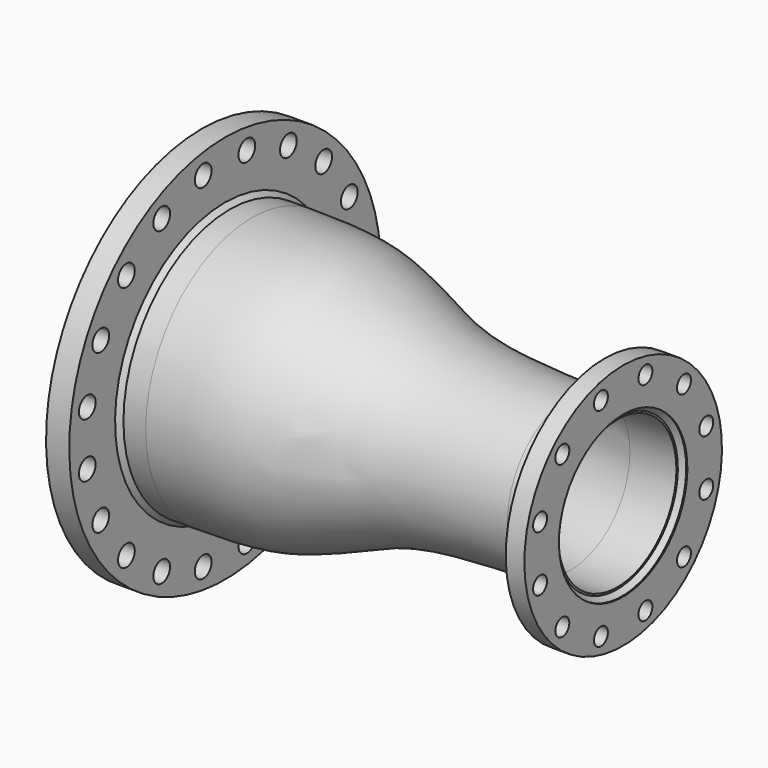
from build123d import *

# Parameters (mm, degrees)
F6_D     = 36
F6_DEPTH = 50
F6_TIP   = 10.8154911425
F8_D     = 30
F8_DEPTH = 50
F8_TIP   = 9.0129092854


with BuildPart() as f1:
    # F0 (on Front) → F1 (revolve)
    with BuildSketch(Plane.XZ):
        Polygon((-337.6619696266, 230), (-329.6619696266, 230), (-299.6619696266, 230), (-299.6619696266, 236.5), (-299.6619696266, 335), (-339.6619696266, 335), (-339.6619696266, 230), align=None)
    revolve(axis=Axis((45.028969672, 0, 0), (1, 0, 0)))

    # F6
    with Locations(Plane(origin=(-339.6619696266, 0, 0), x_dir=(0, -1, 0), z_dir=(-1, 0, 0))):
        with Locations((-46.9303395121, 296.3065021785), (46.9303395121, 296.3065021785), (136.1971499219, 267.3019572565), (212.132034356, 212.132034356), (267.3019572565, 136.1971499219), (296.3065021785, 46.9303395121), (296.3065021785, -46.9303395121), (267.3019572565, -136.1971499219), (212.132034356, -212.132034356), (136.1971499219, -267.3019572565), (46.9303395121, -296.3065021785), (-136.1971499219, -267.3019572565), (-212.132034356, -212.132034356), (-267.3019572565, -136.1971499219), (-296.3065021785, -46.9303395121), (-46.9303395121, -296.3065021785), (-296.3065021785, 46.9303395121), (-267.3019572565, 136.1971499219), (-212.132034356, 212.132034356), (-136.1971499219, 267.3019572565)):
            Hole(F6_D / 2, depth=F6_DEPTH)
            with Locations((0, 0, -(F6_DEPTH + F6_TIP / 2))):  # 118° drill point
                Cone(0, F6_D / 2, F6_TIP, mode=Mode.SUBTRACT)


with BuildPart() as f2:
    # F0 (on Front) → F2 (revolve)
    with BuildSketch(Plane.XZ):
        with BuildLine():
            add(Edge.make_bspline(
                [(-253.3748149872, 228.5), (-207.6811939478, 228.0596494675), (-107.9575658009, 229.4268890138), (23.480264241, 163.9475460602), (130.3051072184, 141.5938575123), (236.1741111698, 137.8832627127), (295.3158915043, 136.55)],
                knots=[0, 0, 0, 0, 0.2542116463, 0.5070615956, 0.7273664746, 1, 1, 1, 1], degree=3))
            Line((-253.3748149872, 228.5), (-253.4206936962, 218.97))
            add(Edge.make_bspline(
                [(-253.4206936962, 218.97), (-240.2009376391, 219.1843285332), (-206.9350282777, 219.7236602371), (-104.4913953456, 213.6592114843), (23.6305209991, 152.5518060653), (127.1706610346, 134.9560944534), (235.1658650843, 127.3504382511), (277.3244460023, 127.1188372265), (295.3158915043, 127.02)],
                knots=[0, 0, 0, 0, 0.1161918754, 0.2923827322, 0.5019993241, 0.6847543592, 0.8654668957, 1, 1, 1, 1], degree=3))
            Line((295.3158915043, 127.02), (295.3158915043, 136.55))
        make_face()
        Polygon((-299.6619696266, 228.5), (-329.6619696266, 228.5), (-329.6619696266, 222), (-329.6619696266, 218.97), (-253.4206936962, 218.97), (-253.3748149872, 228.5), (-291.6619696266, 228.5), align=None)
        Polygon((345.3380303734, 136.55), (295.3158915043, 136.55), (295.3158915043, 127.02), (375.3380303734, 127.02), (375.3380303734, 130.15), (375.3380303734, 136.55), (353.3380303734, 136.55), align=None)
    revolve(axis=Axis((45.028969672, 0, 0), (1, 0, 0)))


with BuildPart() as f3:
    # F0 (on Front) → F3 (revolve)
    with BuildSketch(Plane.XZ):
        Polygon((353.3380303734, 212.5), (353.3380303734, 144.55), (353.3380303734, 138.15), (375.3380303734, 138.15), (383.3380303734, 138.15), (385.3380303734, 138.15), (385.3380303734, 212.5), align=None)
    revolve(axis=Axis((45.028969672, 0, 0), (1, 0, 0)))

    # F8
    with Locations(Plane.YZ.offset(385.3380303734)):
        with Locations((178.6962778635, 47.881523344), (178.6962778635, -47.881523344), (130.8147545195, -130.8147545195), (47.881523344, -178.6962778635), (-47.881523344, -178.6962778635), (-130.8147545195, -130.8147545195), (-178.6962778635, -47.881523344), (-178.6962778635, 47.881523344), (-130.8147545195, 130.8147545195), (-47.881523344, 178.6962778635), (47.881523344, 178.6962778635), (130.8147545195, 130.8147545195)):
            Hole(F8_D / 2, depth=F8_DEPTH)
            with Locations((0, 0, -(F8_DEPTH + F8_TIP / 2))):  # 118° drill point
                Cone(0, F8_D / 2, F8_TIP, mode=Mode.SUBTRACT)


with BuildPart() as f4:
    # F0 (on Front) → F4 (revolve)
    with BuildSketch(Plane.XZ):
        Polygon((-329.6619696266, 222), (-329.6619696266, 228.5), (-329.6619696266, 230), (-337.6619696266, 230), align=None)
    revolve(axis=Axis((45.028969672, 0, 0), (1, 0, 0)))


with BuildPart() as f4b:
    # F0 (on Front) → F4, piece 2 (revolve)
    with BuildSketch(Plane.XZ):
        Polygon((-299.6619696266, 230), (-299.6619696266, 228.5), (-291.6619696266, 228.5), (-299.6619696266, 236.5), align=None)
    revolve(axis=Axis((45.028969672, 0, 0), (1, 0, 0)))


with BuildPart() as f4c:
    # F0 (on Front) → F4, piece 3 (revolve)
    with BuildSketch(Plane.XZ):
        Polygon((353.3380303734, 144.55), (345.3380303734, 136.55), (353.3380303734, 136.55), (353.3380303734, 138.15), align=None)
    revolve(axis=Axis((45.028969672, 0, 0), (1, 0, 0)))


with BuildPart() as f4d:
    # F0 (on Front) → F4, piece 4 (revolve)
    with BuildSketch(Plane.XZ):
        Polygon((375.3380303734, 136.55), (375.3380303734, 130.15), (383.3380303734, 138.15), (375.3380303734, 138.15), align=None)
    revolve(axis=Axis((45.028969672, 0, 0), (1, 0, 0)))


solid = Compound([f1.part, f2.part, f3.part, f4.part, f4b.part, f4c.part, f4d.part])
